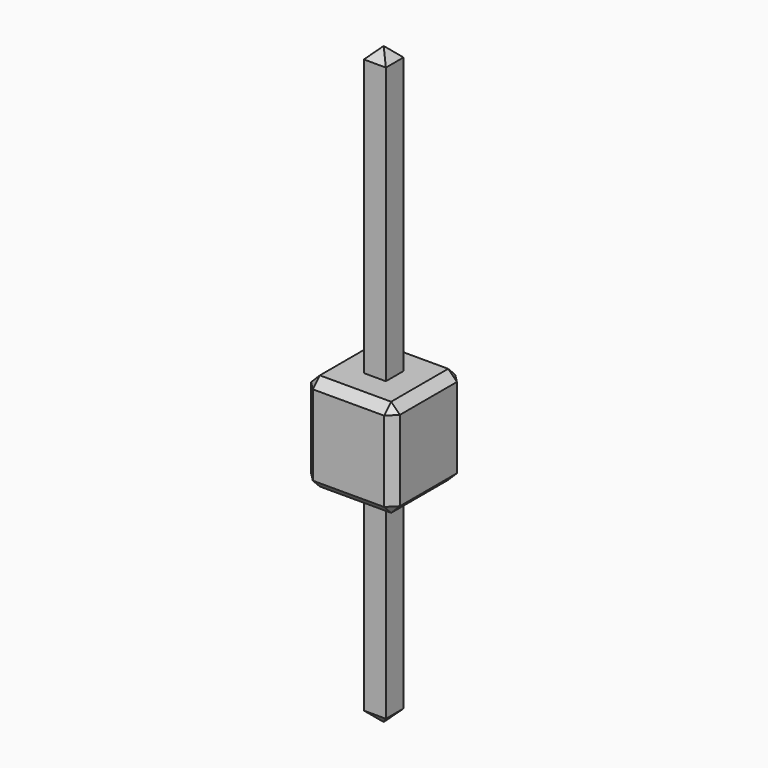
from build123d import *

# Parameters (mm, degrees)
BOX001_W        = 0.63
BOX001_H        = 0.63
BOX001_DEPTH    = 17
CHAMFER001_SIZE = 0.3
BOX_W           = 2.54
BOX_H           = 2.54
BOX_DEPTH       = 2.8
CHAMFER_SIZE    = 0.25


with BuildPart() as pin:
    # Box001 → Box001 (new body)
    with BuildSketch(Plane(origin=(-3, 0, 0), x_dir=(1, 0, 0), z_dir=(0, 0, 1))):
        with Locations((0.315, 0.315)):
            Rectangle(BOX001_W, BOX001_H)
    extrude(amount=BOX001_DEPTH)

    # Chamfer001
    chamfer001_edges = [pin.edges().sort_by_distance(p)[0] for p in [
        (-3, 0.315, 17),
        (-3, 0.315, 0),
        (-2.37, 0.315, 17),
        (-2.37, 0.315, 0),
        (-2.685, 0, 0),
        (-2.685, 0, 17),
        (-2.685, 0.63, 0),
        (-2.685, 0.63, 17),
    ]]
    chamfer(chamfer001_edges, length=CHAMFER001_SIZE)


with BuildPart() as pin_1:
    # Chamfer001 placement: moved
    add(pin.part.moved(Location((3.95, 0.95, -6))))


with BuildPart() as single_pin:
    # Box → Box (new body)
    with BuildSketch(Plane.XY):
        with Locations((1.27, 1.27)):
            Rectangle(BOX_W, BOX_H)
    extrude(amount=BOX_DEPTH)

    # Chamfer
    chamfer_edges = [single_pin.edges().sort_by_distance(p)[0] for p in [
        (0, 0, 1.4),
        (0, 1.27, 2.8),
        (0, 2.54, 1.4),
        (0, 1.27, 0),
        (2.54, 0, 1.4),
        (2.54, 1.27, 2.8),
        (2.54, 2.54, 1.4),
        (2.54, 1.27, 0),
        (1.27, 0, 0),
        (1.27, 0, 2.8),
        (1.27, 2.54, 0),
        (1.27, 2.54, 2.8),
    ]]
    chamfer(chamfer_edges, length=CHAMFER_SIZE)

    # Fusion: union Pin
    add(pin_1.part)


solid = single_pin.part
